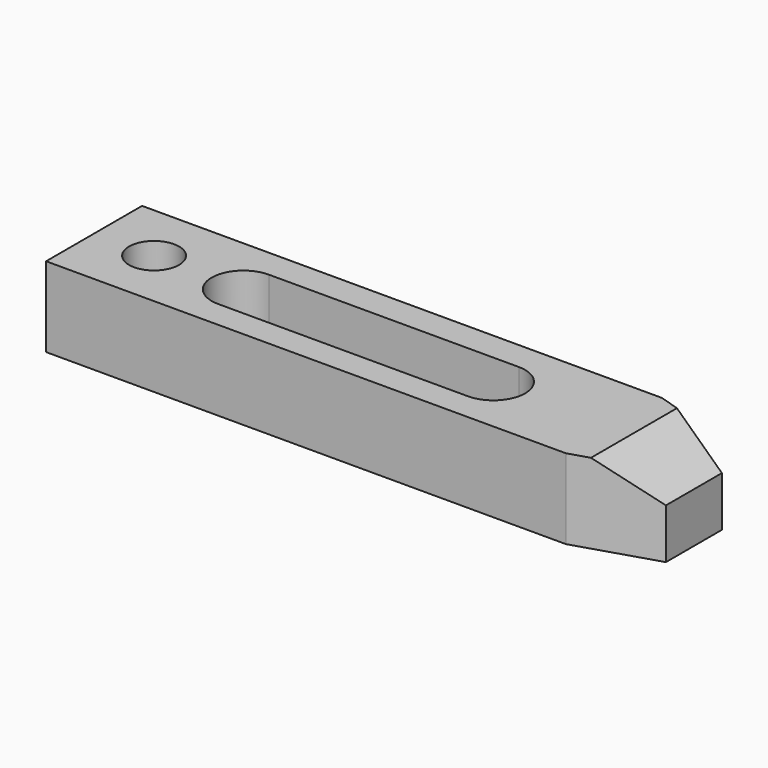
from build123d import *

# Parameters (mm, degrees)
F1_DEPTH = 8
F3_D     = 5
F5_DEPTH = 8.001
F7_DEPTH = 12.001


with BuildPart() as f1:
    # F0 (on Top) → F1 (new body)
    with BuildSketch(Plane.XY):
        Polygon((0, 12), (0, 0), (52, 0), (60, 2.5), (60, 9.5), (52, 12), align=None)
    extrude(amount=F1_DEPTH)

    # F3 (through all)
    with Locations(Plane.XY.offset(8)):
        with Locations((6, 6)):
            Hole(F3_D / 2)

    # F4 (on face) → F5 (cut, through all)
    with BuildSketch(Plane.XY.offset(8)):
        with BuildLine():
            ThreePointArc((15, 9.0993724681), (11.825, 5.9243724681), (15, 2.7493724681))
            Line((15, 2.7493724681), (40, 2.7493724681))
            ThreePointArc((40, 2.7493724681), (43.175, 5.9243724681), (40, 9.0993724681))
            Line((40, 9.0993724681), (15, 9.0993724681))
        make_face()
    extrude(amount=-F5_DEPTH, mode=Mode.SUBTRACT)

    # F6 (on face) → F7 (cut, through all)
    with BuildSketch(Plane.XZ):
        Polygon((60, 8), (54, 8), (60, 5), align=None)
    extrude(amount=-F7_DEPTH, mode=Mode.SUBTRACT)


solid = f1.part
